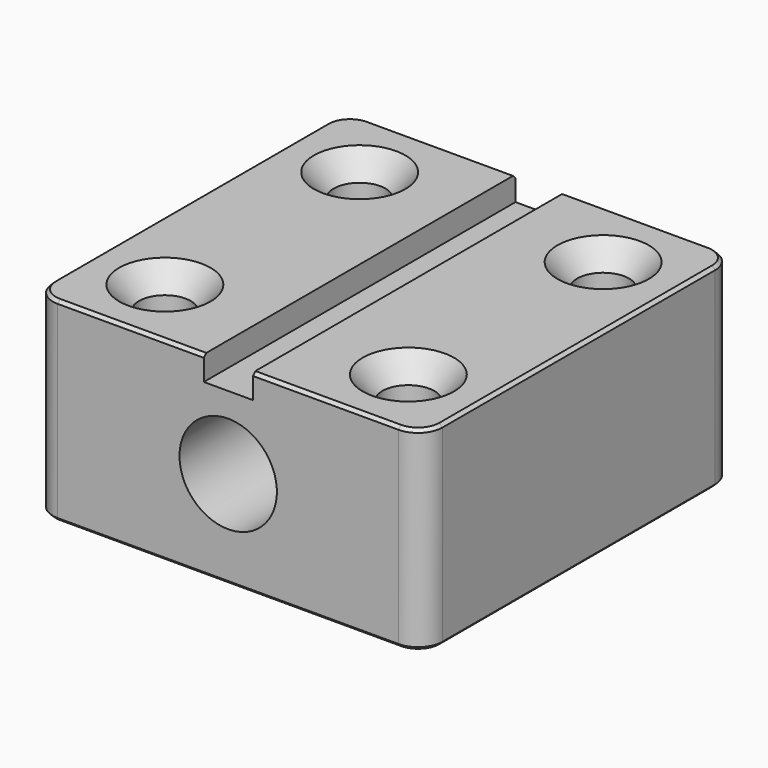
from build123d import *

# Parameters (mm, degrees)
F1_DEPTH       = 50.8
F3_D           = 13.49248
F3_CSINK_D     = 23.8252
F3_CSINK_ANGLE = 82
F4_R           = 6.35
F5_SIZE        = 0.8128
F7_D           = 25.4


with BuildPart() as f1:
    # F0 (on Front) → F1 (new body, symmetric)
    with BuildSketch(Plane.XZ):
        Polygon((-6.35, 25.4), (-50.8, 25.4), (-50.8, -25.4), (50.8, -25.4), (50.8, 25.4), (6.4515996888, 25.4), (6.4515996888, 19.05), (-6.35, 19.05), align=None)
    extrude(amount=F1_DEPTH, both=True)

    # F3 (through all)
    with Locations(Plane.XY.offset(25.4)):
        with Locations((-31.75, 31.75), (31.75, 31.75), (-31.75, -31.75), (31.75, -31.75)):
            CounterSinkHole(F3_D / 2, F3_CSINK_D / 2, counter_sink_angle=F3_CSINK_ANGLE)

    # F4
    f4_edges = [f1.edges().sort_by_distance(p)[0] for p in [
        (50.8, 50.8, 0),
        (50.8, -50.8, 0),
        (-50.8, -50.8, 0),
        (-50.8, 50.8, 0),
    ]]
    fillet(f4_edges, radius=F4_R)

    # F5
    f5_edges = [f1.edges().sort_by_distance(p)[0] for p in [
        (-50.8, 0, 25.4),
        (50.8, 0, 25.4),
        (-25.4, 50.8, 25.4),
        (25.4508, 50.8, 25.4),
        (-25.4, -50.8, 25.4),
        (25.4508, -50.8, 25.4),
        (-50.8, 0, -25.4),
        (-48.940128, 48.940128, -25.4),
        (-48.940128, -48.940128, -25.4),
        (0, 50.8, -25.4),
        (0, -50.8, -25.4),
        (48.940128, 48.940128, -25.4),
        (48.940128, -48.940128, -25.4),
        (50.8, 0, -25.4),
        (-38.49624, 31.75, -25.4),
        (25.00376, 31.75, -25.4),
        (-38.49624, -31.75, -25.4),
        (25.00376, -31.75, -25.4),
    ]]
    chamfer(f5_edges, length=F5_SIZE)

    # F7 (through all)
    with Locations(Plane.XZ.offset(50.8)):
        with Locations((0, 0)):
            Hole(F7_D / 2)


solid = f1.part
